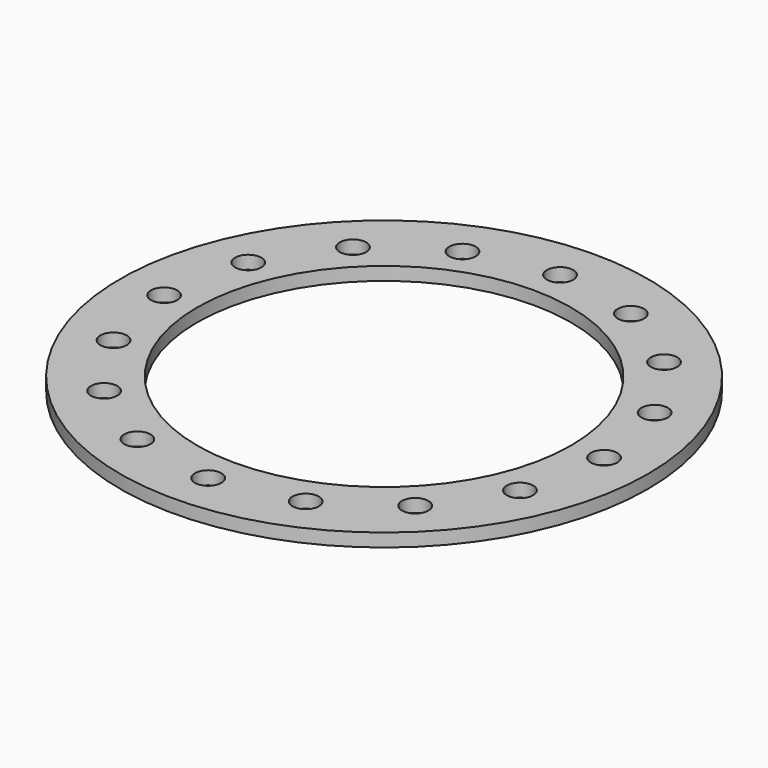
from build123d import *

# Parameters (mm, degrees)
F0_R     = 60
F0_R_2   = 3
F0_R_3   = 42.5
F1_DEPTH = 3


with BuildPart() as f1:
    # F0 (on Top) → F1 (new body)
    with BuildSketch(Plane.XY):
        Circle(F0_R)
        with Locations((-35.355339, -35.355339)):
            Circle(F0_R_2, mode=Mode.SUBTRACT)
        with Locations((-19.134172, -46.193977)):
            Circle(F0_R_2, mode=Mode.SUBTRACT)
        with Locations((-46.193977, -19.134172)):
            Circle(F0_R_2, mode=Mode.SUBTRACT)
        with Locations((0, -50)):
            Circle(F0_R_2, mode=Mode.SUBTRACT)
        with Locations((19.134172, -46.193977)):
            Circle(F0_R_2, mode=Mode.SUBTRACT)
        with Locations((35.355339, -35.355339)):
            Circle(F0_R_2, mode=Mode.SUBTRACT)
        with Locations((46.193977, -19.134172)):
            Circle(F0_R_2, mode=Mode.SUBTRACT)
        with Locations((-50, 0)):
            Circle(F0_R_2, mode=Mode.SUBTRACT)
        with Locations((-46.193977, 19.134172)):
            Circle(F0_R_2, mode=Mode.SUBTRACT)
        with Locations((-35.355339, 35.355339)):
            Circle(F0_R_2, mode=Mode.SUBTRACT)
        with Locations((-19.134172, 46.193977)):
            Circle(F0_R_2, mode=Mode.SUBTRACT)
        Circle(F0_R_3, mode=Mode.SUBTRACT)
        with Locations((50, 0)):
            Circle(F0_R_2, mode=Mode.SUBTRACT)
        with Locations((46.193977, 19.134172)):
            Circle(F0_R_2, mode=Mode.SUBTRACT)
        with Locations((0, 50)):
            Circle(F0_R_2, mode=Mode.SUBTRACT)
        with Locations((19.134172, 46.193977)):
            Circle(F0_R_2, mode=Mode.SUBTRACT)
        with Locations((35.355339, 35.355339)):
            Circle(F0_R_2, mode=Mode.SUBTRACT)
    extrude(amount=F1_DEPTH)


solid = f1.part
